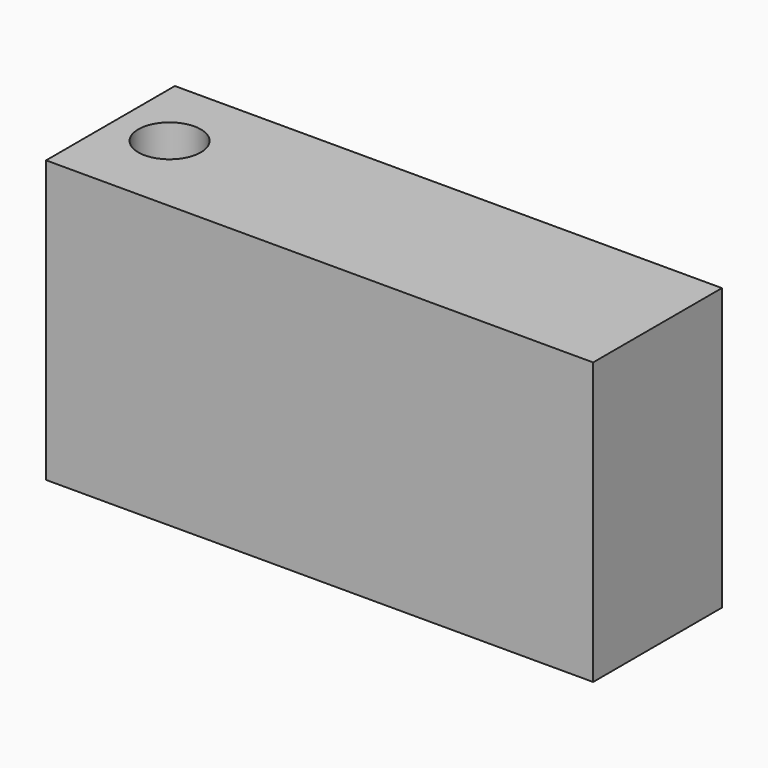
from build123d import *

# Parameters (mm, degrees)
CYLINDER004_R     = 2
CYLINDER004_DEPTH = 20
BOX007_W          = 36
BOX007_H          = 10
BOX007_DEPTH      = 10
BOX007_ROLL_ANGLE = 45
BOX006_W          = 9.5
BOX006_H          = 10
BOX006_DEPTH      = 15
BOX004_W          = 9.5
BOX004_H          = 10
BOX004_DEPTH      = 15
BOX001_W          = 35
BOX001_H          = 10.3
BOX001_DEPTH      = 18


with BuildPart() as zylinder004:
    # Cylinder004 → Cylinder004 (new body)
    with BuildSketch(Plane(origin=(6, -4.5, -12), x_dir=(1, 0, 0), z_dir=(0, 0, 1))):
        Circle(CYLINDER004_R)
    extrude(amount=CYLINDER004_DEPTH)


with BuildPart() as obj1:
    # Box007 → Box007 (new body)
    with BuildSketch(Plane.XY):
        with Locations((18, 5)):
            Rectangle(BOX007_W, BOX007_H)
    extrude(amount=BOX007_DEPTH)


with BuildPart() as obj1_1:
    # Box007 roll: moved
    add(obj1.part.rotate(Axis((0, 0, 0), (1, 0, 0)), BOX007_ROLL_ANGLE))


with BuildPart() as obj1_2:
    # Box007 placement: moved
    add(obj1_1.part.moved(Location((0, -10, -2))))


with BuildPart() as obj2:
    # Box006 → Box006 (new body)
    with BuildSketch(Plane(origin=(21, -8.8, -11), x_dir=(1, 0, 0), z_dir=(0, 0, 1))):
        with Locations((4.75, 5)):
            Rectangle(BOX006_W, BOX006_H)
    extrude(amount=BOX006_DEPTH)


with BuildPart() as fusion014:
    # Box004 → Box004 (new body)
    with BuildSketch(Plane(origin=(10, -8.8, -11), x_dir=(1, 0, 0), z_dir=(0, 0, 1))):
        with Locations((4.75, 5)):
            Rectangle(BOX004_W, BOX004_H)
    extrude(amount=BOX004_DEPTH)

    # Fusion007: union obj2
    add(obj2.part)

    # Cut001: cut obj1
    add(obj1_2.part, mode=Mode.SUBTRACT)

    # Fusion014: union Zylinder004
    add(zylinder004.part)


with BuildPart() as cut002:
    # Box001 → Box001 (new body)
    with BuildSketch(Plane(origin=(2.5, -10, -11), x_dir=(1, 0, 0), z_dir=(0, 0, 1))):
        with Locations((17.5, 5.15)):
            Rectangle(BOX001_W, BOX001_H)
    extrude(amount=BOX001_DEPTH)

    # Cut002: cut Fusion014
    add(fusion014.part, mode=Mode.SUBTRACT)


with BuildPart() as cut002_1:
    # Cut002 placement: moved
    add(cut002.part.moved(Location((0, -0.3, 0))))


solid = cut002_1.part
